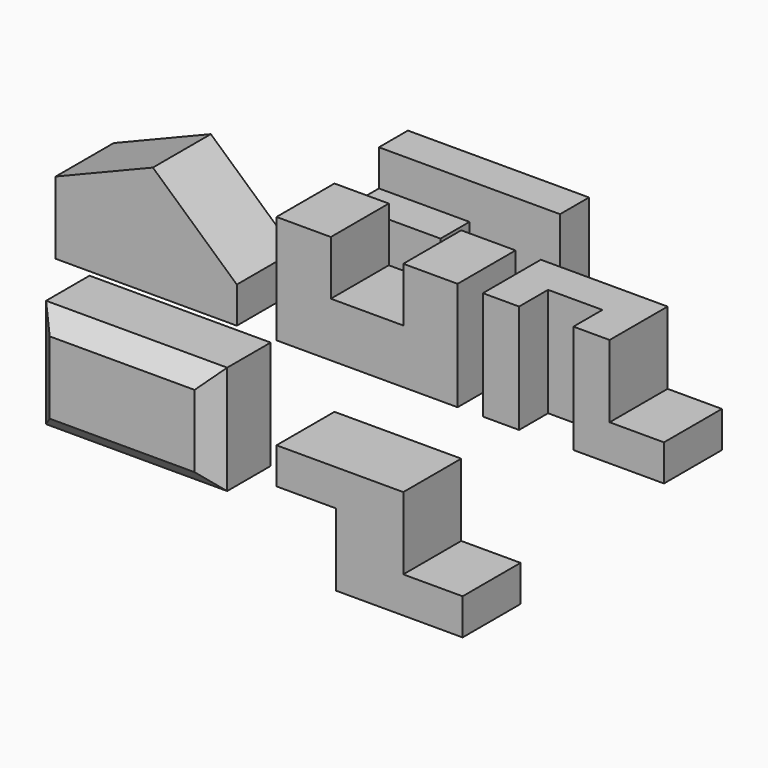
from build123d import *

# Parameters (mm, degrees)
F1_DEPTH  = 101.6
F3_DEPTH  = 254
F4_W      = 50.8
F4_H      = 101.6
F5_DEPTH  = 127
F7_DEPTH  = 152.4
F6_W      = 76.2
F6_H      = 101.6
F8_DEPTH  = 50.8
F10_DEPTH = 101.6
F12_DEPTH = 101.6
F13_W     = 254
F13_H     = 152.4
F13_W_2   = 203.2
F13_H_2   = 101.6
F14_DEPTH = 101.6
F15_SIZE  = 25.4


with BuildPart() as f1:
    # F0 (on Front) → F1 (new body)
    with BuildSketch(Plane.XZ):
        Polygon((0, 152.4), (0, 0), (254, 0), (254, 152.4), (177.8, 152.4), (177.8, 76.2), (76.2, 76.2), (76.2, 152.4), align=None)
    extrude(amount=-F1_DEPTH)


with BuildPart() as f3:
    # F2 (on Right) → F3 (new body)
    with BuildSketch(Plane.YZ):
        Polygon((230.363947, 12.99777), (230.363947, 165.39777), (179.563947, 165.39777), (179.563947, 114.59777), (128.763947, 114.59777), (128.763947, 12.99777), align=None)
    extrude(amount=F3_DEPTH)

    # F4 (on face) → F5 (cut)
    with BuildSketch(Plane.YZ.offset(254)):
        with Locations((154.163947, 63.79777)):
            Rectangle(F4_W, F4_H)
    extrude(amount=-F5_DEPTH, mode=Mode.SUBTRACT)


with BuildPart() as f7:
    # F6 (on Top) → F7 (new body)
    with BuildSketch(Plane.XY):
        Polygon((416.413037, 0), (467.213037, 0), (467.213037, 101.6), (289.413037, 101.6), (289.413037, 0), (340.213037, 0), (340.213037, 50.8), (416.413037, 50.8), align=None)
    extrude(amount=F7_DEPTH)

    # F6 (on Top) → F8 (join)
    with BuildSketch(Plane.XY):
        with Locations((505.313037, 50.8)):
            Rectangle(F6_W, F6_H)
        Polygon((416.413037, 0), (467.213037, 0), (467.213037, 101.6), (289.413037, 101.6), (289.413037, 0), (340.213037, 0), (340.213037, 50.8), (416.413037, 50.8), align=None)
    extrude(amount=F8_DEPTH)


with BuildPart() as f10:
    # F9 (on Front) → F10 (new body)
    with BuildSketch(Plane.XZ):
        Polygon((177.8, -129.515269), (0, -129.515269), (0, -180.315269), (83.208472, -180.315269), (83.208472, -281.915269), (261.008472, -281.915269), (261.008472, -231.115269), (177.8, -231.115269), align=None)
    extrude(amount=-F10_DEPTH)


with BuildPart() as f12:
    # F11 (on Front) → F12 (new body)
    with BuildSketch(Plane.XZ):
        Polygon((-309.664648, 0), (-55.664648, 0), (-55.664648, 50.8), (-173.37502, 156.967672), (-309.664648, 101.6), align=None)
    extrude(amount=-F12_DEPTH)


with BuildPart() as f14:
    # F13 (on Front) → F14 (new body)
    with BuildSketch(Plane.XZ):
        with Locations((-216.476953, -149.304441)):
            Rectangle(F13_W, F13_H)
        with Locations((-222.070536, -144.596387)):
            Rectangle(F13_W_2, F13_H_2, mode=Mode.SUBTRACT)
        with Locations((-222.070536, -144.596387)):
            Rectangle(F13_W_2, F13_H_2)
    extrude(amount=-F14_DEPTH)

    # F15
    f15_edges = [f14.edges().sort_by_distance(p)[0] for p in [
        (-89.476953, 0, -149.304441),
        (-216.476953, 0, -73.104441),
        (-343.476953, 0, -149.304441),
        (-216.476953, 0, -225.504441),
    ]]
    chamfer(f15_edges, length=F15_SIZE)


solid = Compound([f1.part, f3.part, f7.part, f10.part, f12.part, f14.part])
